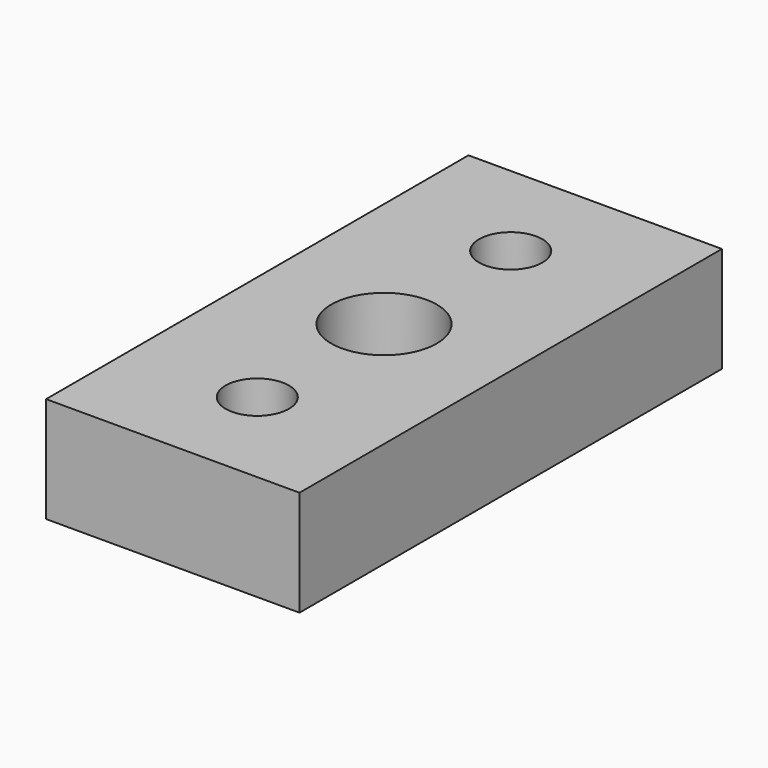
from build123d import *

# Parameters (mm, degrees)
F0_W           = 12
F0_H           = 25
F0_R           = 2.5
F1_DEPTH       = 5
F3_D           = 3
F3_CSINK_D     = 7.5
F3_CSINK_ANGLE = 90


with BuildPart() as f1:
    # F0 (on Top) → F1 (new body)
    with BuildSketch(Plane.XY):
        Rectangle(F0_W, F0_H)
        Circle(F0_R, mode=Mode.SUBTRACT)
    extrude(amount=F1_DEPTH)

    # F3 (through all)
    with Locations(Plane(origin=(0, 0, 0), x_dir=(1, 0, 0), z_dir=(0, 0, -1))):
        with Locations((0, 7.5), (0, -7.5)):
            CounterSinkHole(F3_D / 2, F3_CSINK_D / 2, counter_sink_angle=F3_CSINK_ANGLE)


solid = f1.part
